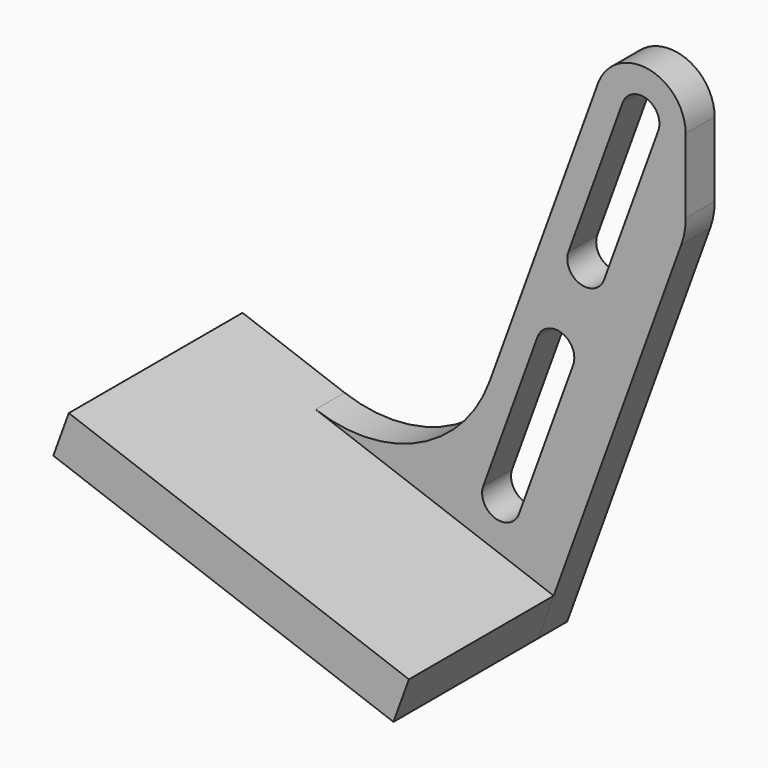
from build123d import *

# Parameters (mm, degrees)
PAD039_DEPTH = 4
PAD040_DEPTH = 20


with BuildPart() as tentingfoot:
    # Sketch060 → Pad039 (new body)
    with BuildSketch(Plane.XZ):
        with BuildLine():
            ThreePointArc((-21.1964126557, -41.8543733369), (-9.7268365797, -41.3536008307), (-1.970721194, -32.889286175))
            Line((-1.970721194, -32.889286175), (10, 0))
            ThreePointArc((19.6984611198, -1.705646413), (15.5645105895, 3.2143243008), (10, 0))
            Line((19.6984611198, -1.705646413), (19.7057836753, -9.9252842627))
            ThreePointArc((19.2233278161, -12.6685722951), (19.5848668778, -11.3180871255), (19.7057836753, -9.9252842627))
            Line((19.2233278161, -12.6685722951), (3.4048800097, -56.129400454))
            Line((-34.1828248217, -42.448594721), (3.4048800097, -56.129400454))
            Line((-32.4727241051, -37.750131617), (-34.1828248217, -42.448594721))
            Line((-21.1964126557, -41.8543733369), (-32.4727241051, -37.750131617))
        make_face()
        with BuildLine():
            ThreePointArc((16.6718176076, -2.4283430176), (15.4167054049, 0.263253787), (12.7251086003, -0.9918584156))
            Line((12.7251086003, -0.9918584156), (6.7397560921, -17.4364792794))
            ThreePointArc((6.7397560921, -17.4364792794), (7.9948682947, -20.128076084), (10.6864650994, -18.8729638814))
            Line((10.6864650994, -18.8729638814), (16.6718176076, -2.4283430176))
        make_face(mode=Mode.SUBTRACT)
        with BuildLine():
            ThreePointArc((7.2662547771, -28.2698888178), (6.0111449398, -25.5782909102), (3.3195470322, -26.8334007475))
            Line((3.3195470322, -26.8334007475), (-2.6658199272, -43.2780163515))
            ThreePointArc((-2.6658199272, -43.2780163515), (-1.4107100899, -45.9696142591), (1.2808878177, -44.7145044217))
            Line((1.2808878177, -44.7145044217), (7.2662547771, -28.2698888178))
        make_face(mode=Mode.SUBTRACT)
    extrude(amount=PAD039_DEPTH)

    # Sketch061 → Pad040 (join)
    with BuildSketch(Plane.XZ):
        Polygon((5.1149807264, -51.4309373501), (-32.4727241051, -37.750131617), (-34.1828248217, -42.448594721), (3.4048800097, -56.129400454), align=None)
    extrude(amount=-PAD040_DEPTH)


with BuildPart() as tentingfoot_1:
    # Body013 placement: moved
    add(tentingfoot.part.moved(Location((140, 55, 0))))


with BuildPart() as part_mirroring001:
    # Part__Mirroring001: instance of TentingFoot
    add(tentingfoot_1.part.mirror(Plane(origin=(133.8426055908, 1.9073e-06, -12.4421358109), x_dir=(1, 0, 0), z_dir=(0, 1, -1.192e-07))))


solid = part_mirroring001.part
